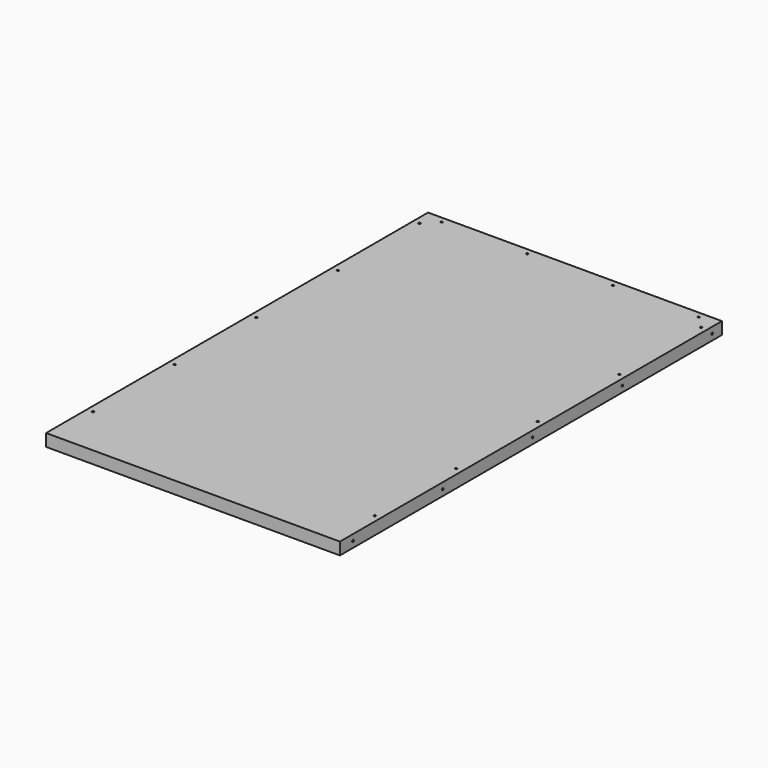
from build123d import *

# Parameters (mm, degrees)
F0_W     = 457.2
F0_H     = 742.95
F1_DEPTH = 19.05
F2_R     = 1.5875
F3_DEPTH = 19.051
F4_R     = 1.5875
F5_DEPTH = 19.051
F6_R     = 1.5875
F7_DEPTH = 457.201
F8_R     = 1.5875
F9_DEPTH = 25.4


with BuildPart() as f1:
    # F0 (on Top) → F1 (new body)
    with BuildSketch(Plane.XY):
        with Locations((228.6, -371.475)):
            Rectangle(F0_W, F0_H)
    extrude(amount=-F1_DEPTH)

    # F2 (on Top) → F3 (cut, through all)
    with BuildSketch(Plane.XY):
        with Locations((9.525, -28.575)):
            Circle(F2_R)
        with Locations((9.525, -187.325)):
            Circle(F2_R)
        with Locations((9.525, -346.075)):
            Circle(F2_R)
        with Locations((9.525, -504.825)):
            Circle(F2_R)
        with Locations((9.525, -663.575)):
            Circle(F2_R)
        with Locations((447.675, -28.575)):
            Circle(F2_R)
        with Locations((447.675, -187.325)):
            Circle(F2_R)
        with Locations((447.675, -346.075)):
            Circle(F2_R)
        with Locations((447.675, -504.825)):
            Circle(F2_R)
        with Locations((447.675, -663.575)):
            Circle(F2_R)
    extrude(amount=-F3_DEPTH, mode=Mode.SUBTRACT)

    # F4 (on Top) → F5 (cut, through all)
    with BuildSketch(Plane.XY):
        with Locations((28.575, -9.525)):
            Circle(F4_R)
        with Locations((161.925, -9.525)):
            Circle(F4_R)
        with Locations((295.275, -9.525)):
            Circle(F4_R)
        with Locations((428.625, -9.525)):
            Circle(F4_R)
    extrude(amount=-F5_DEPTH, mode=Mode.SUBTRACT)

    # F6 (on Right) → F7 (cut, through all)
    with BuildSketch(Plane.YZ):
        with Locations((-19.05, -9.525)):
            Circle(F6_R)
        with Locations((-193.675, -9.525)):
            Circle(F6_R)
        with Locations((-368.3, -9.525)):
            Circle(F6_R)
        with Locations((-542.925, -9.525)):
            Circle(F6_R)
        with Locations((-717.55, -9.525)):
            Circle(F6_R)
    extrude(amount=F7_DEPTH, mode=Mode.SUBTRACT)

    # F8 (on Front) → F9 (cut)
    with BuildSketch(Plane.XZ):
        with Locations((19.05, -9.525)):
            Circle(F8_R)
        with Locations((123.825, -9.525)):
            Circle(F8_R)
        with Locations((228.6, -9.525)):
            Circle(F8_R)
        with Locations((333.375, -9.525)):
            Circle(F8_R)
        with Locations((438.15, -9.525)):
            Circle(F8_R)
    extrude(amount=F9_DEPTH, mode=Mode.SUBTRACT)


solid = f1.part
